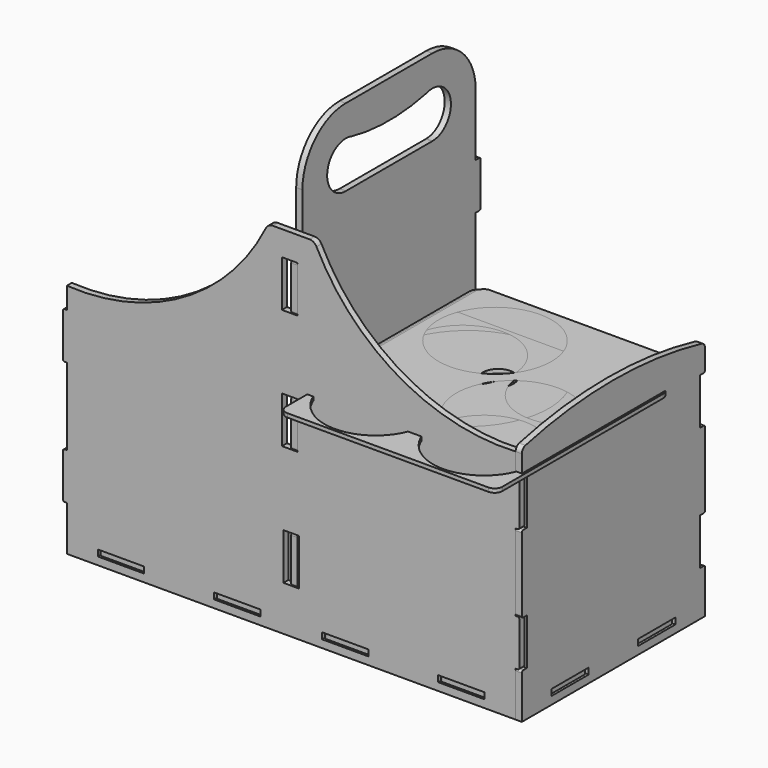
from build123d import *

# Parameters (mm, degrees)
F1_DEPTH  = 5.11
F3_DEPTH  = 5.11
F4_W      = 38.1
F4_H      = 5.11
F4_W_2    = 12.7
F4_H_2    = 38.1
F5_DEPTH  = 5.11
F6_W      = 38.1
F6_H      = 5.11
F7_DEPTH  = 5.11
F8_R      = 1.5875
F9_DEPTH  = 3.175
F10_R     = 12.7
F11_DEPTH = 3.175
F13_DEPTH = 3.175
F14_R     = 41.91
F15_DEPTH = 3.175
F16_R     = 46.355
F17_DEPTH = 3.175


with BuildPart() as f1:
    # F0 (on Right) → F1 (new body)
    with BuildSketch(Plane.YZ):
        with BuildLine():
            Line((-88.9, 25.4), (-88.9, 0))
            Line((-88.9, 0), (88.9, 0))
            Line((88.9, 0), (88.9, 25.4))
            Line((88.9, 25.4), (92.4225, 25.4))
            ThreePointArc((92.4225, 25.4), (93.545032, 25.864968), (94.01, 26.9875))
            Line((94.01, 26.9875), (94.01, 61.9125))
            ThreePointArc((94.01, 61.9125), (93.545032, 63.035032), (92.4225, 63.5))
            Line((92.4225, 63.5), (88.9, 63.5))
            Line((88.9, 63.5), (88.9, 123.825))
            Line((88.9, 123.825), (92.4225, 123.825))
            ThreePointArc((92.4225, 123.825), (93.545032, 124.289968), (94.01, 125.4125))
            Line((94.01, 125.4125), (94.01, 160.3375))
            ThreePointArc((94.01, 160.3375), (93.545032, 161.460032), (92.4225, 161.925))
            Line((92.4225, 161.925), (88.9, 161.925))
            Line((88.9, 161.925), (88.9, 222.25))
            Line((88.9, 222.25), (92.4225, 222.25))
            ThreePointArc((92.4225, 222.25), (93.545032, 222.714968), (94.01, 223.8375))
            Line((94.01, 223.8375), (94.01, 258.7625))
            ThreePointArc((94.01, 258.7625), (93.545032, 259.885032), (92.4225, 260.35))
            Line((92.4225, 260.35), (88.9, 260.35))
            Line((88.9, 260.35), (88.9, 311.15))
            ThreePointArc((88.9, 311.15), (75.880896, 342.580896), (44.45, 355.6))
            Line((44.45, 355.6), (-44.45, 355.6))
            ThreePointArc((-44.45, 355.6), (-75.880896, 342.580896), (-88.9, 311.15))
            Line((-88.9, 311.15), (-88.9, 260.35))
            Line((-88.9, 260.35), (-92.4225, 260.35))
            ThreePointArc((-92.4225, 260.35), (-93.545032, 259.885032), (-94.01, 258.7625))
            Line((-94.01, 258.7625), (-94.01, 223.8375))
            ThreePointArc((-94.01, 223.8375), (-93.545032, 222.714968), (-92.4225, 222.25))
            Line((-92.4225, 222.25), (-88.9, 222.25))
            Line((-88.9, 222.25), (-88.9, 161.925))
            Line((-88.9, 161.925), (-92.4225, 161.925))
            ThreePointArc((-92.4225, 161.925), (-93.545032, 161.460032), (-94.01, 160.3375))
            Line((-94.01, 160.3375), (-94.01, 125.4125))
            ThreePointArc((-94.01, 125.4125), (-93.545032, 124.289968), (-92.4225, 123.825))
            Line((-92.4225, 123.825), (-88.9, 123.825))
            Line((-88.9, 123.825), (-88.9, 63.5))
            Line((-88.9, 63.5), (-92.4225, 63.5))
            ThreePointArc((-92.4225, 63.5), (-93.545032, 63.035032), (-94.01, 61.9125))
            Line((-94.01, 61.9125), (-94.01, 26.9875))
            ThreePointArc((-94.01, 26.9875), (-93.545032, 25.864968), (-92.4225, 25.4))
            Line((-92.4225, 25.4), (-88.9, 25.4))
        make_face()
        with BuildLine():
            ThreePointArc((-44.271573, 292.100836), (-63.244236, 314.261141), (-38.142617, 329.125523))
            ThreePointArc((-38.142617, 329.125523), (0, 324.962205), (38.142617, 329.125523))
            ThreePointArc((38.142617, 329.125523), (63.214272, 314.437037), (44.628427, 292.100836))
            ThreePointArc((44.628427, 292.100836), (44.45, 292.1), (44.271573, 292.100836))
            Line((44.271573, 292.100836), (-44.271573, 292.100836))
        make_face(mode=Mode.SUBTRACT)
    extrude(amount=F1_DEPTH)


with BuildPart() as f3:
    # F2 (on Top) → F3 (new body)
    with BuildSketch(Plane.XY):
        with BuildLine():
            Line((158.75, -88.9), (184.15, -88.9))
            Line((184.15, -88.9), (184.15, -63.5))
            Line((184.15, -63.5), (185.7375, -63.5))
            ThreePointArc((185.7375, -63.5), (186.860032, -63.035032), (187.325, -61.9125))
            Line((187.325, -61.9125), (187.325, -26.9875))
            ThreePointArc((187.325, -26.9875), (186.860032, -25.864968), (185.7375, -25.4))
            Line((185.7375, -25.4), (184.15, -25.4))
            Line((184.15, -25.4), (184.15, 25.4))
            Line((184.15, 25.4), (185.7375, 25.4))
            ThreePointArc((185.7375, 25.4), (186.860032, 25.864968), (187.325, 26.9875))
            Line((187.325, 26.9875), (187.325, 61.9125))
            ThreePointArc((187.325, 61.9125), (186.860032, 63.035032), (185.7375, 63.5))
            Line((185.7375, 63.5), (184.15, 63.5))
            Line((184.15, 63.5), (184.15, 88.9))
            Line((184.15, 88.9), (158.75, 88.9))
            Line((158.75, 88.9), (158.75, 90.4875))
            ThreePointArc((158.75, 90.4875), (158.285032, 91.610032), (157.1625, 92.075))
            Line((157.1625, 92.075), (122.2375, 92.075))
            ThreePointArc((122.2375, 92.075), (121.114968, 91.610032), (120.65, 90.4875))
            Line((120.65, 90.4875), (120.65, 88.9))
            Line((120.65, 88.9), (63.5, 88.9))
            Line((63.5, 88.9), (63.5, 90.4875))
            ThreePointArc((63.5, 90.4875), (63.035032, 91.610032), (61.9125, 92.075))
            Line((61.9125, 92.075), (26.9875, 92.075))
            ThreePointArc((26.9875, 92.075), (25.864968, 91.610032), (25.4, 90.4875))
            Line((25.4, 90.4875), (25.4, 88.9))
            Line((25.4, 88.9), (-25.4, 88.9))
            Line((-25.4, 88.9), (-25.4, 90.4875))
            ThreePointArc((-25.4, 90.4875), (-25.864968, 91.610032), (-26.9875, 92.075))
            Line((-26.9875, 92.075), (-61.9125, 92.075))
            ThreePointArc((-61.9125, 92.075), (-63.035032, 91.610032), (-63.5, 90.4875))
            Line((-63.5, 90.4875), (-63.5, 88.9))
            Line((-63.5, 88.9), (-120.65, 88.9))
            Line((-120.65, 88.9), (-120.65, 90.4875))
            ThreePointArc((-120.65, 90.4875), (-121.114968, 91.610032), (-122.2375, 92.075))
            Line((-122.2375, 92.075), (-157.1625, 92.075))
            ThreePointArc((-157.1625, 92.075), (-158.285032, 91.610032), (-158.75, 90.4875))
            Line((-158.75, 90.4875), (-158.75, 88.9))
            Line((-158.75, 88.9), (-184.15, 88.9))
            Line((-184.15, 88.9), (-184.15, 63.5))
            Line((-184.15, 63.5), (-185.7375, 63.5))
            ThreePointArc((-185.7375, 63.5), (-186.860032, 63.035032), (-187.325, 61.9125))
            Line((-187.325, 61.9125), (-187.325, 26.9875))
            ThreePointArc((-187.325, 26.9875), (-186.860032, 25.864968), (-185.7375, 25.4))
            Line((-185.7375, 25.4), (-184.15, 25.4))
            Line((-184.15, 25.4), (-184.15, -25.4))
            Line((-184.15, -25.4), (-185.7375, -25.4))
            ThreePointArc((-185.7375, -25.4), (-186.860032, -25.864968), (-187.325, -26.9875))
            Line((-187.325, -26.9875), (-187.325, -61.9125))
            ThreePointArc((-187.325, -61.9125), (-186.860032, -63.035032), (-185.7375, -63.5))
            Line((-185.7375, -63.5), (-184.15, -63.5))
            Line((-184.15, -63.5), (-184.15, -88.9))
            Line((-184.15, -88.9), (-158.75, -88.9))
            Line((-158.75, -88.9), (-158.75, -90.4875))
            ThreePointArc((-158.75, -90.4875), (-158.285032, -91.610032), (-157.1625, -92.075))
            Line((-157.1625, -92.075), (-122.2375, -92.075))
            ThreePointArc((-122.2375, -92.075), (-121.114968, -91.610032), (-120.65, -90.4875))
            Line((-120.65, -90.4875), (-120.65, -88.9))
            Line((-120.65, -88.9), (-63.5, -88.9))
            Line((-63.5, -88.9), (-63.5, -90.4875))
            ThreePointArc((-63.5, -90.4875), (-63.035032, -91.610032), (-61.9125, -92.075))
            Line((-61.9125, -92.075), (-26.9875, -92.075))
            ThreePointArc((-26.9875, -92.075), (-25.864968, -91.610032), (-25.4, -90.4875))
            Line((-25.4, -90.4875), (-25.4, -88.9))
            Line((-25.4, -88.9), (25.4, -88.9))
            Line((25.4, -88.9), (25.4, -90.4875))
            ThreePointArc((25.4, -90.4875), (25.864968, -91.610032), (26.9875, -92.075))
            Line((26.9875, -92.075), (61.9125, -92.075))
            ThreePointArc((61.9125, -92.075), (63.035032, -91.610032), (63.5, -90.4875))
            Line((63.5, -90.4875), (63.5, -88.9))
            Line((63.5, -88.9), (120.65, -88.9))
            Line((120.65, -88.9), (120.65, -90.4875))
            ThreePointArc((120.65, -90.4875), (121.114968, -91.610032), (122.2375, -92.075))
            Line((122.2375, -92.075), (157.1625, -92.075))
            ThreePointArc((157.1625, -92.075), (158.285032, -91.610032), (158.75, -90.4875))
            Line((158.75, -90.4875), (158.75, -88.9))
        make_face()
    extrude(amount=-F3_DEPTH)


with BuildPart() as f5:
    # F4 (on face) → F5 (new body)
    with BuildSketch(Plane.XZ.offset(88.9)):
        with BuildLine():
            Line((-184.251334, 25.4), (-184.15, -11.46))
            Line((-184.15, -11.46), (184.251334, -11.46))
            Line((184.251334, -11.46), (184.251334, 25.4))
            Line((184.251334, 25.4), (185.838834, 25.4))
            ThreePointArc((185.838834, 25.4), (186.961366, 25.864968), (187.426334, 26.9875))
            Line((187.426334, 26.9875), (187.426334, 61.9125))
            ThreePointArc((187.426334, 61.9125), (186.961366, 63.035032), (185.838834, 63.5))
            Line((185.838834, 63.5), (184.251334, 63.5))
            Line((184.251334, 63.5), (184.251334, 126.759678))
            Line((184.251334, 126.759678), (185.838834, 126.759678))
            ThreePointArc((185.838834, 126.759678), (186.961366, 127.224646), (187.426334, 128.347178))
            Line((187.426334, 128.347178), (187.426334, 163.272178))
            ThreePointArc((187.426334, 163.272178), (186.961366, 164.39471), (185.838834, 164.859678))
            Line((185.838834, 164.859678), (184.251334, 164.859678))
            Line((184.251334, 164.859678), (184.251334, 182.318368))
            ThreePointArc((184.251334, 182.318368), (88.297692, 205.225247), (20.754503, 277.126181))
            ThreePointArc((20.754503, 277.126181), (18.413196, 279.690567), (15.073079, 280.64))
            Line((15.073079, 280.64), (-15.073079, 280.64))
            ThreePointArc((-15.073079, 280.64), (-18.413196, 279.690567), (-20.754503, 277.126181))
            ThreePointArc((-20.754503, 277.126181), (-88.297692, 205.225247), (-184.251334, 182.318368))
            Line((-184.251334, 182.318368), (-184.251334, 164.859678))
            Line((-184.251334, 164.859678), (-185.838834, 164.859678))
            ThreePointArc((-185.838834, 164.859678), (-186.961366, 164.39471), (-187.426334, 163.272178))
            Line((-187.426334, 163.272178), (-187.426334, 128.347178))
            ThreePointArc((-187.426334, 128.347178), (-186.961366, 127.224646), (-185.838834, 126.759678))
            Line((-185.838834, 126.759678), (-184.251334, 126.759678))
            Line((-184.251334, 126.759678), (-184.251334, 63.5))
            Line((-184.251334, 63.5), (-185.838834, 63.5))
            ThreePointArc((-185.838834, 63.5), (-186.961366, 63.035032), (-187.426334, 61.9125))
            Line((-187.426334, 61.9125), (-187.426334, 26.9875))
            ThreePointArc((-187.426334, 26.9875), (-186.961366, 25.864968), (-185.838834, 25.4))
            Line((-185.838834, 25.4), (-184.251334, 25.4))
        make_face()
        with Locations((-139.7, -2.555)):
            Rectangle(F4_W, F4_H, mode=Mode.SUBTRACT)
        with Locations((-44.45, -2.555)):
            Rectangle(F4_W, F4_H, mode=Mode.SUBTRACT)
        with Locations((-0.021399, 44.45)):
            Rectangle(F4_W_2, F4_H_2, mode=Mode.SUBTRACT)
        with Locations((44.45, -2.555)):
            Rectangle(F4_W, F4_H, mode=Mode.SUBTRACT)
        with Locations((139.7, -2.555)):
            Rectangle(F4_W, F4_H, mode=Mode.SUBTRACT)
        with Locations((-1.24, 142.875)):
            Rectangle(F4_W_2, F4_H_2, mode=Mode.SUBTRACT)
        with Locations((-1.24, 241.3)):
            Rectangle(F4_W_2, F4_H_2, mode=Mode.SUBTRACT)
    extrude(amount=F5_DEPTH)


with BuildPart() as f7:
    # F6 (on face) → F7 (new body)
    with BuildSketch(Plane.YZ.offset(184.251334)):
        with BuildLine():
            Line((-94.01, 23.8125), (-94.01, -11.46))
            Line((-94.01, -11.46), (94.01, -11.46))
            Line((94.01, -11.46), (94.01, 23.8125))
            ThreePointArc((94.01, 23.8125), (93.545032, 24.935032), (92.4225, 25.4))
            Line((92.4225, 25.4), (88.9, 25.4))
            Line((88.9, 25.4), (88.9, 63.5))
            Line((88.9, 63.5), (92.4225, 63.5))
            ThreePointArc((92.4225, 63.5), (93.545032, 63.964968), (94.01, 65.0875))
            Line((94.01, 65.0875), (94.01, 125.172178))
            ThreePointArc((94.01, 125.172178), (93.545032, 126.29471), (92.4225, 126.759678))
            Line((92.4225, 126.759678), (88.9, 126.759678))
            Line((88.9, 126.759678), (88.9, 164.859678))
            Line((88.9, 164.859678), (92.4225, 164.859678))
            ThreePointArc((92.4225, 164.859678), (93.545032, 165.324646), (94.01, 166.447178))
            Line((94.01, 166.447178), (94.01, 182.318368))
            ThreePointArc((94.01, 182.318368), (92.981602, 185.27436), (90.340545, 186.953738))
            ThreePointArc((90.340545, 186.953738), (0, 197.461042), (-90.340545, 186.953738))
            ThreePointArc((-90.340545, 186.953738), (-92.981602, 185.27436), (-94.01, 182.318368))
            Line((-94.01, 182.318368), (-94.01, 166.447178))
            ThreePointArc((-94.01, 166.447178), (-93.545032, 165.324646), (-92.4225, 164.859678))
            Line((-92.4225, 164.859678), (-88.9, 164.859678))
            Line((-88.9, 164.859678), (-88.9, 126.759678))
            Line((-88.9, 126.759678), (-92.4225, 126.759678))
            ThreePointArc((-92.4225, 126.759678), (-93.545032, 126.29471), (-94.01, 125.172178))
            Line((-94.01, 125.172178), (-94.01, 65.0875))
            ThreePointArc((-94.01, 65.0875), (-93.545032, 63.964968), (-92.4225, 63.5))
            Line((-92.4225, 63.5), (-88.9, 63.5))
            Line((-88.9, 63.5), (-88.9, 25.4))
            Line((-88.9, 25.4), (-92.4225, 25.4))
            ThreePointArc((-92.4225, 25.4), (-93.545032, 24.935032), (-94.01, 23.8125))
        make_face()
        with Locations((-44.45, -2.555)):
            Rectangle(F6_W, F6_H, mode=Mode.SUBTRACT)
        with Locations((44.45, -2.555)):
            Rectangle(F6_W, F6_H, mode=Mode.SUBTRACT)
    extrude(amount=F7_DEPTH)


with BuildPart() as f9:
    # F8 (on face) → F9 (new body)
    with BuildSketch(Plane(origin=(0, -88.9, 0), x_dir=(-1, 0, 0), z_dir=(0, 1, 0))):
        with BuildLine():
            Line((-6.6975, 164.859678), (-182.663834, 164.859678))
            ThreePointArc((-182.663834, 164.859678), (-183.786366, 164.39471), (-184.251334, 163.272178))
            Line((-184.251334, 163.272178), (-184.251334, 160.732178))
            ThreePointArc((-184.251334, 160.732178), (-183.786366, 159.609646), (-182.663834, 159.144678))
            Line((-182.663834, 159.144678), (-6.6975, 159.144678))
            ThreePointArc((-6.6975, 159.144678), (-5.574968, 159.609646), (-5.11, 160.732178))
            Line((-5.11, 160.732178), (-5.11, 163.272178))
            ThreePointArc((-5.11, 163.272178), (-5.574968, 164.39471), (-6.6975, 164.859678))
        make_face()
        with Locations((-166.054674, 162.002178)):
            Circle(F8_R, mode=Mode.SUBTRACT)
        with Locations((-23.306661, 162.002178)):
            Circle(F8_R, mode=Mode.SUBTRACT)
    extrude(amount=F9_DEPTH)


with BuildPart() as f11:
    # F10 (on face) → F11 (new body)
    with BuildSketch(Plane.XY.offset(164.859678)):
        with BuildLine():
            ThreePointArc((5.11, -82.55), (6.969872, -87.040128), (11.46, -88.9))
            Line((11.46, -88.9), (177.8, -88.9))
            ThreePointArc((177.8, -88.9), (182.290128, -87.040128), (184.15, -82.55))
            Line((184.15, -82.55), (184.15, 82.55))
            ThreePointArc((184.15, 82.55), (182.290128, 87.040128), (177.8, 88.9))
            Line((177.8, 88.9), (11.46, 88.9))
            ThreePointArc((11.46, 88.9), (6.969872, 87.040128), (5.11, 82.55))
            Line((5.11, 82.55), (5.11, -82.55))
        make_face()
        with Locations((94.680667, 0)):
            Circle(F10_R, mode=Mode.SUBTRACT)
    extrude(amount=F11_DEPTH)


with BuildPart() as f13:
    # F12 (on face) → F13 (new body)
    with BuildSketch(Plane.XY.offset(164.859678)):
        with BuildLine():
            ThreePointArc((6.6975, -82.55), (8.557372, -87.040128), (13.0475, -88.9))
            Line((13.0475, -88.9), (178.1475, -88.9))
            ThreePointArc((178.1475, -88.9), (182.637628, -87.040128), (184.4975, -82.55))
            Line((184.4975, -82.55), (184.4975, 82.55))
            ThreePointArc((184.4975, 82.55), (182.637628, 87.040128), (178.1475, 88.9))
            Line((178.1475, 88.9), (13.0475, 88.9))
            ThreePointArc((13.0475, 88.9), (8.557372, 87.040128), (6.6975, 82.55))
            Line((6.6975, 82.55), (6.6975, -82.55))
        make_face()
        with BuildLine():
            ThreePointArc((137.447974, 20.666529), (32.576155, -59.846345), (113.089029, 45.025474))
            ThreePointArc((113.089029, 45.025474), (119.096564, 43.828146), (124.590868, 46.536778))
            Line((124.590868, 46.536778), (157.300145, 79.246055))
            ThreePointArc((157.300145, 79.246055), (164.035337, 82.035863), (170.77053, 79.246055))
            Line((170.77053, 79.246055), (171.668555, 78.34803))
            ThreePointArc((171.668555, 78.34803), (174.458363, 71.612837), (171.668555, 64.877645))
            Line((171.668555, 64.877645), (138.959278, 32.168368))
            ThreePointArc((138.959278, 32.168368), (136.250646, 26.674064), (137.447974, 20.666529))
        make_face(mode=Mode.SUBTRACT)
    extrude(amount=F13_DEPTH)


with BuildPart() as f15:
    # F14 (on face) → F15 (new body)
    with BuildSketch(Plane.XY.offset(164.859678)):
        with BuildLine():
            ThreePointArc((13.20474, -116.087285), (15.064612, -120.577413), (19.55474, -122.437285))
            Line((19.55474, -122.437285), (184.65474, -122.437285))
            ThreePointArc((184.65474, -122.437285), (189.144868, -120.577413), (191.00474, -116.087285))
            Line((191.00474, -116.087285), (191.00474, 49.012715))
            ThreePointArc((191.00474, 49.012715), (189.144868, 53.502843), (184.65474, 55.362715))
            Line((184.65474, 55.362715), (19.55474, 55.362715))
            ThreePointArc((19.55474, 55.362715), (15.064612, 53.502843), (13.20474, 49.012715))
            Line((13.20474, 49.012715), (13.20474, -116.087285))
        make_face()
        with Locations((57.01974, -78.622285)):
            Circle(F14_R, mode=Mode.SUBTRACT)
        with Locations((145.91974, -78.622285)):
            Circle(F14_R, mode=Mode.SUBTRACT)
        with Locations((57.01974, 10.277715)):
            Circle(F14_R, mode=Mode.SUBTRACT)
        with Locations((145.91974, 10.277715)):
            Circle(F14_R, mode=Mode.SUBTRACT)
    extrude(amount=F15_DEPTH)


with BuildPart() as f17:
    # F16 (on face) → F17 (new body)
    with BuildSketch(Plane.XY.offset(164.859678)):
        with BuildLine():
            ThreePointArc((7.9375, -79.375), (9.797372, -83.865128), (14.2875, -85.725))
            Line((14.2875, -85.725), (179.3875, -85.725))
            ThreePointArc((179.3875, -85.725), (183.877628, -83.865128), (185.7375, -79.375))
            Line((185.7375, -79.375), (185.7375, 85.725))
            ThreePointArc((185.7375, 85.725), (183.877628, 90.215128), (179.3875, 92.075))
            Line((179.3875, 92.075), (14.2875, 92.075))
            ThreePointArc((14.2875, 92.075), (9.797372, 90.215128), (7.9375, 85.725))
            Line((7.9375, 85.725), (7.9375, -79.375))
        make_face()
        with Locations((133.0325, -33.02)):
            Circle(F16_R, mode=Mode.SUBTRACT)
        with Locations((60.6425, 39.37)):
            Circle(F16_R, mode=Mode.SUBTRACT)
    extrude(amount=F17_DEPTH)


solid = Compound([f1.part, f3.part, f5.part, f7.part, f9.part, f11.part, f13.part, f15.part, f17.part])
